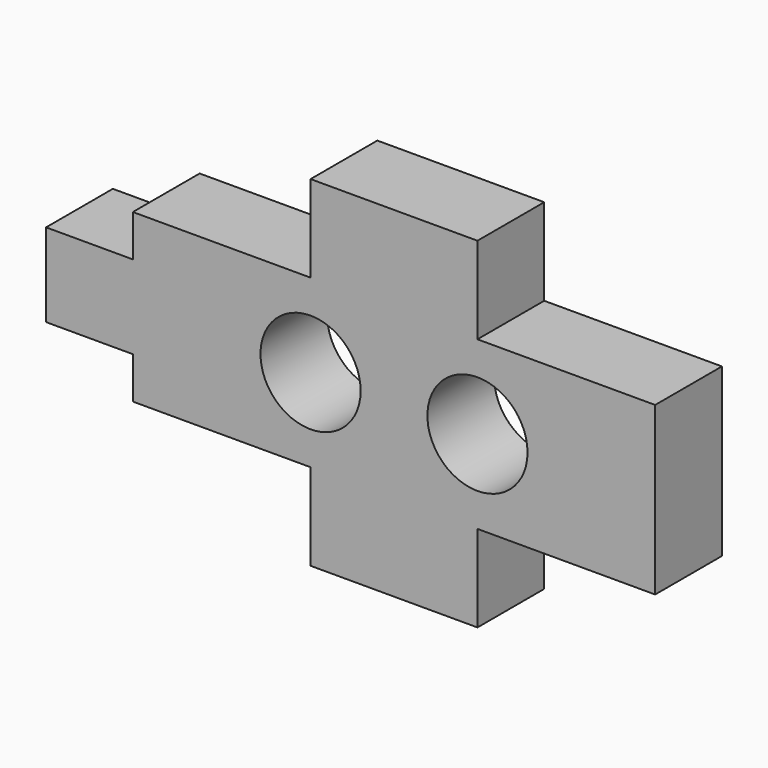
from build123d import *

# Parameters (mm, degrees)
F0_R     = 3.81
F1_DEPTH = 6.35


with BuildPart() as f1:
    # F0 (on Front) → F1 (new body)
    with BuildSketch(Plane.XZ):
        Polygon((-19.872528, 0), (-6.35, 0), (-6.35, -6.604), (6.35, -6.604), (6.35, 0), (19.872528, 0), (19.872528, 12.7), (6.35, 12.7), (6.35, 19.304), (-6.35, 19.304), (-6.35, 12.7), (-19.872528, 12.7), (-19.872528, 9.525), (-26.476528, 9.525), (-26.476528, 3.175), (-19.872528, 3.175), align=None)
        with Locations((-6.35, 6.35)):
            Circle(F0_R, mode=Mode.SUBTRACT)
        with Locations((6.35, 6.35)):
            Circle(F0_R, mode=Mode.SUBTRACT)
    extrude(amount=F1_DEPTH)


solid = f1.part
